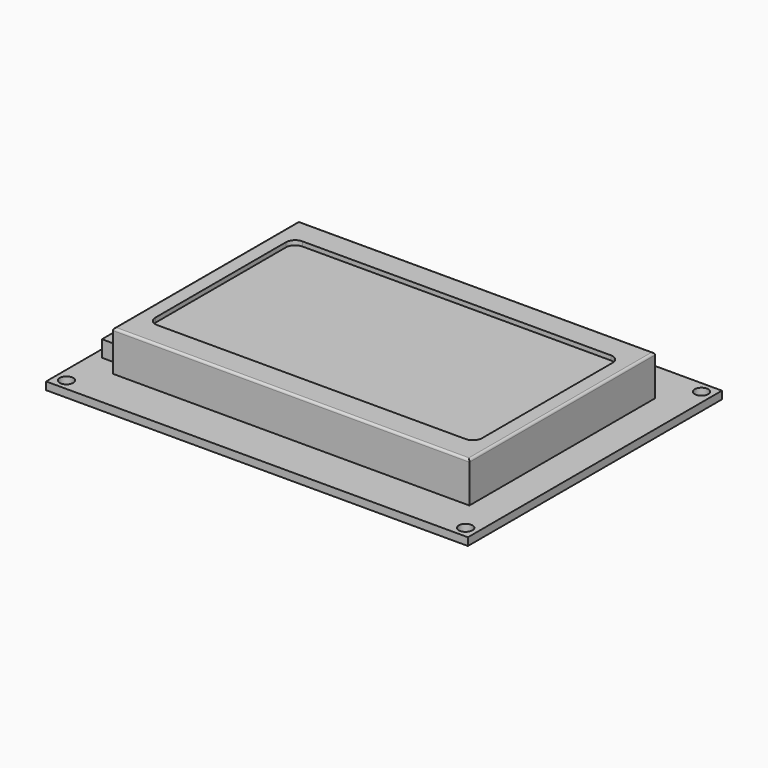
from build123d import *

# Parameters (mm, degrees)
SKETCH001004_W  = 93
SKETCH001004_H  = 70
SKETCH001004_R  = 1.5
PAD002_DEPTH    = 1.7
SKETCH001005_W  = 78.6
SKETCH001005_H  = 51.2
PAD003_DEPTH    = 8.9
SKETCH001006_W  = 7
SKETCH001006_H  = 44
PAD004_DEPTH    = 3.6
FILLET003_R     = 0.5
POCKET002_DEPTH = 1


with BuildPart() as part:
    # Sketch001004 → Pad002 (new body)
    with BuildSketch(Plane.XY.offset(4.6)):
        with Locations((0, 8.5)):
            Rectangle(SKETCH001004_W, SKETCH001004_H)
        with Locations((-44, 41)):
            Circle(SKETCH001004_R, mode=Mode.SUBTRACT)
        with Locations((44, 41)):
            Circle(SKETCH001004_R, mode=Mode.SUBTRACT)
        with Locations((-44, -24)):
            Circle(SKETCH001004_R, mode=Mode.SUBTRACT)
        with Locations((44, -24)):
            Circle(SKETCH001004_R, mode=Mode.SUBTRACT)
    extrude(amount=PAD002_DEPTH)

    # Sketch001005 → Pad003 (new body)
    with BuildSketch(Plane.XY.offset(6.3)):
        with Locations((0, 8.5)):
            Rectangle(SKETCH001005_W, SKETCH001005_H)
    extrude(amount=PAD003_DEPTH)

    # Sketch001006 → Pad004 (new body)
    with BuildSketch(Plane.XY.offset(6.3)):
        with Locations((-41, 8.4)):
            Rectangle(SKETCH001006_W, SKETCH001006_H)
    extrude(amount=PAD004_DEPTH)

    # Fillet003
    fillet003_edges = [part.edges().sort_by_distance(p)[0] for p in [
        (0, -17.1, 15.2),
        (39.3, 8.5, 15.2),
        (0, 34.1, 15.2),
        (-39.3, 8.5, 15.2),
    ]]
    fillet(fillet003_edges, radius=FILLET003_R)

    # Sketch001014 → Pocket002 (cut)
    with BuildSketch(Plane.XY.offset(15.2)):
        with BuildLine():
            Line((-34, 28.5), (34, 28.5))
            ThreePointArc((36, 26.5), (35.414214, 27.914214), (34, 28.5))
            Line((36, 26.5), (36, -9.5))
            ThreePointArc((34, -11.5), (35.414214, -10.914214), (36, -9.5))
            Line((34, -11.5), (-34, -11.5))
            ThreePointArc((-36, -9.5), (-35.414214, -10.914214), (-34, -11.5))
            Line((-36, -9.5), (-36, 26.5))
            ThreePointArc((-34, 28.5), (-35.414214, 27.914214), (-36, 26.5))
        make_face()
    extrude(amount=-POCKET002_DEPTH, mode=Mode.SUBTRACT)


solid = part.part
